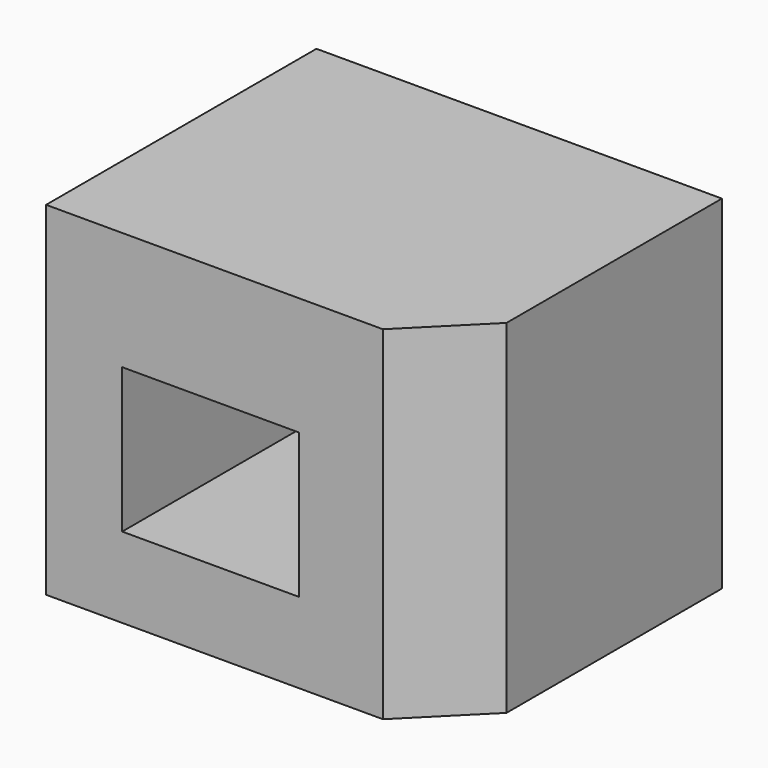
from build123d import *

# Parameters (mm, degrees)
F0_W     = 30
F0_H     = 25
F1_DEPTH = 25.4
F2_SIZE  = 5.08
F3_W     = 13.087139
F3_H     = 10.707659
F4_DEPTH = 35.941


with BuildPart() as f1:
    # F0 (on Top) → F1 (new body)
    with BuildSketch(Plane.XY):
        with Locations((9.369201, 1.240393)):
            Rectangle(F0_W, F0_H)
    extrude(amount=F1_DEPTH)

    # F2
    f2_edges = [f1.edges().sort_by_distance(p)[0] for p in [
        (24.369201, -11.259607, 12.7),
    ]]
    chamfer(f2_edges, length=F2_SIZE)

    # F3 (on face) → F4 (cut)
    with BuildSketch(Plane.XZ.offset(11.259607)):
        with Locations((6.543569, 11.302529)):
            Rectangle(F3_W, F3_H)
    extrude(amount=-F4_DEPTH, mode=Mode.SUBTRACT)


solid = f1.part
